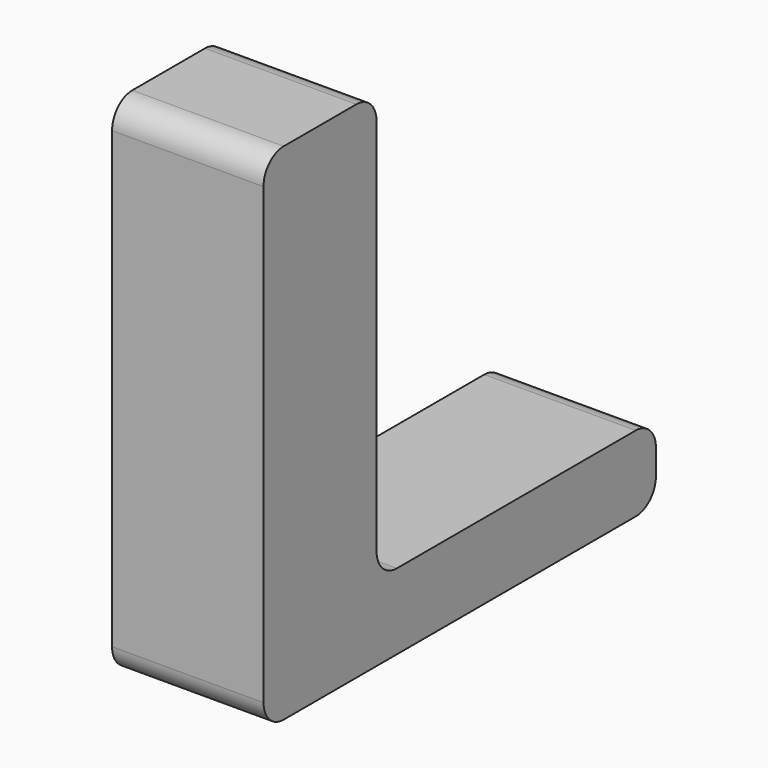
from build123d import *

# Parameters (mm, degrees)
F1_DEPTH = 30


with BuildPart() as f1:
    # F0 (on Right) → F1 (new body)
    with BuildSketch(Plane.YZ):
        with BuildLine():
            Line((-30.74899, 39.781864), (-48.74899, 39.781864))
            ThreePointArc((-48.74899, 39.781864), (-52.284524, 38.317398), (-53.74899, 34.781864))
            Line((-53.74899, 34.781864), (-53.74899, -55.218136))
            ThreePointArc((-53.74899, -55.218136), (-52.284524, -58.75367), (-48.74899, -60.218136))
            Line((-48.74899, -60.218136), (38.41838, -60.218136))
            ThreePointArc((38.41838, -60.218136), (41.953914, -58.75367), (43.41838, -55.218136))
            Line((43.41838, -55.218136), (43.41838, -50.218136))
            ThreePointArc((43.41838, -50.218136), (41.953914, -46.682602), (38.41838, -45.218136))
            Line((38.41838, -45.218136), (-20.74899, -45.218136))
            ThreePointArc((-20.74899, -45.218136), (-24.284524, -43.75367), (-25.74899, -40.218136))
            Line((-25.74899, -40.218136), (-25.74899, 34.781864))
            ThreePointArc((-25.74899, 34.781864), (-27.213456, 38.317398), (-30.74899, 39.781864))
        make_face()
    extrude(amount=F1_DEPTH)


solid = f1.part
